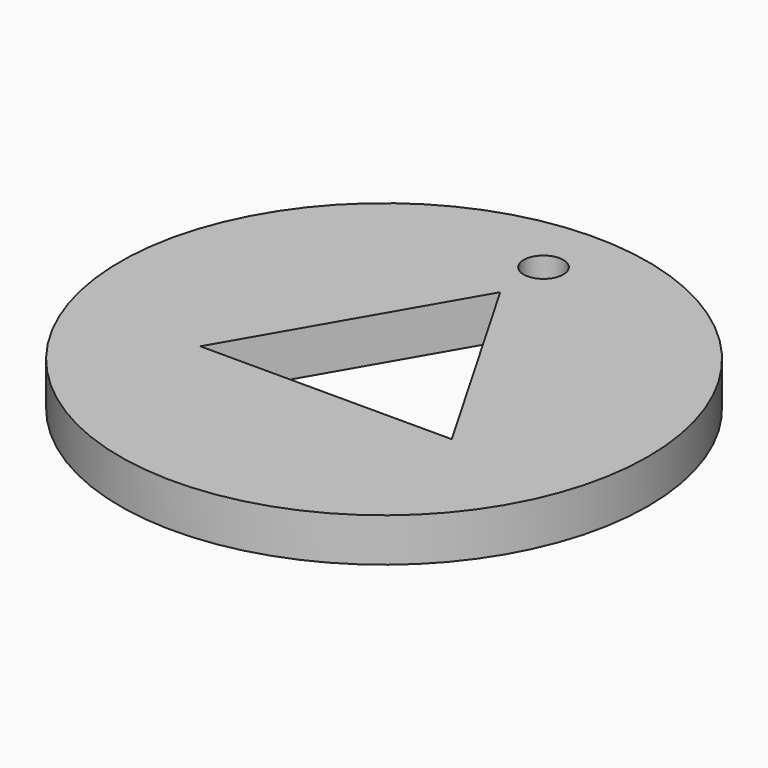
from build123d import *

# Parameters (mm, degrees)
CYLINDER_R      = 20
CYLINDER_DEPTH  = 3.3
SKETCH_R        = 1.5
POCKET_DEPTH    = 3.301
POCKET001_DEPTH = 5


with BuildPart() as part:
    # Cylinder → Cylinder (new body)
    with BuildSketch(Plane.XY):
        Circle(CYLINDER_R)
    extrude(amount=CYLINDER_DEPTH)

    # Sketch → Pocket (cut, through all)
    with BuildSketch(Plane.XY.offset(3.3)):
        with Locations((0, 15.1)):
            Circle(SKETCH_R)
    extrude(amount=-POCKET_DEPTH, mode=Mode.SUBTRACT)

    # Sketch001 → Pocket001 (cut)
    with BuildSketch(Plane(origin=(0, 0, 0), x_dir=(1, 0, 0), z_dir=(0, 0, -1))):
        Polygon((0, -11), (-9.526279, 5.5), (9.526279, 5.5), align=None)
    extrude(amount=-POCKET001_DEPTH, mode=Mode.SUBTRACT)


solid = part.part
